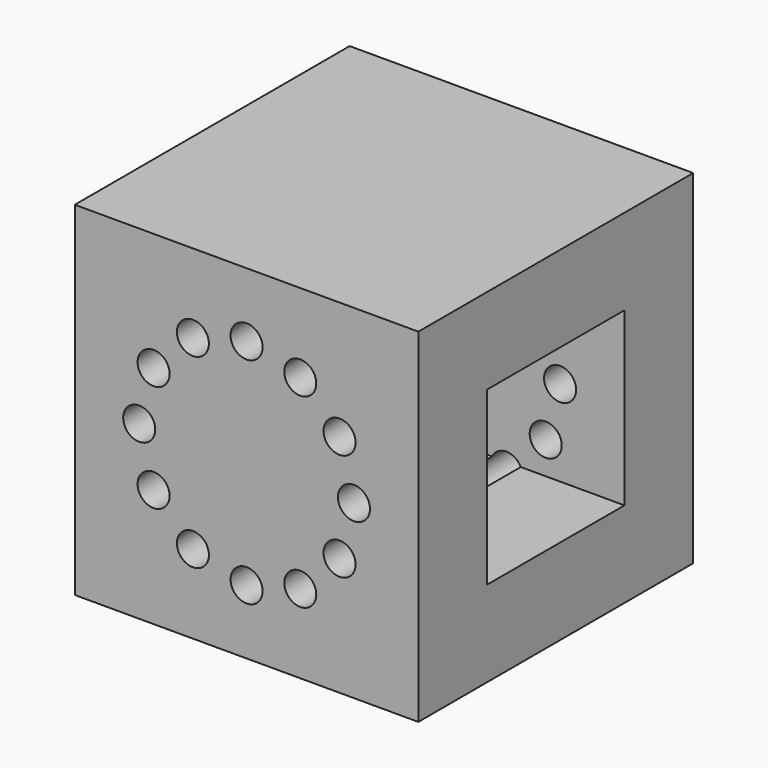
from build123d import *

# Parameters (mm, degrees)
F0_W     = 101.6
F0_H     = 101.6
F1_DEPTH = 50.8
F2_R     = 4.7348864271
F3_DEPTH = 101.601
F5_COUNT = 12
F5_ANGLE = 330
F6_W     = 50.8
F6_H     = 50.8
F7_DEPTH = 76.2


with BuildPart() as f1:
    # F0 (on Front) → F1 (new body, symmetric)
    with BuildSketch(Plane.XZ):
        Rectangle(F0_W, F0_H)
    extrude(amount=F1_DEPTH, both=True)

    # F2 (on face) → F3 (cut, through all)
    with BuildSketch(Plane.XZ.offset(50.8)):
        with Locations((-27.4963065702, 15.875)):
            Circle(F2_R)
    f3 = extrude(amount=-F3_DEPTH, mode=Mode.SUBTRACT)

    # F5: F3 ×12 about axis
    f5_axis = Axis((0, 0, 0), (0, -1, 0))
    for i in range(1, F5_COUNT):
        add(f3.rotate(f5_axis, i * F5_ANGLE / (F5_COUNT - 1)), mode=Mode.SUBTRACT)

    # F6 (on face) → F7 (cut)
    with BuildSketch(Plane.YZ.offset(50.8)):
        Rectangle(F6_W, F6_H)
    extrude(amount=-F7_DEPTH, mode=Mode.SUBTRACT)


solid = f1.part
